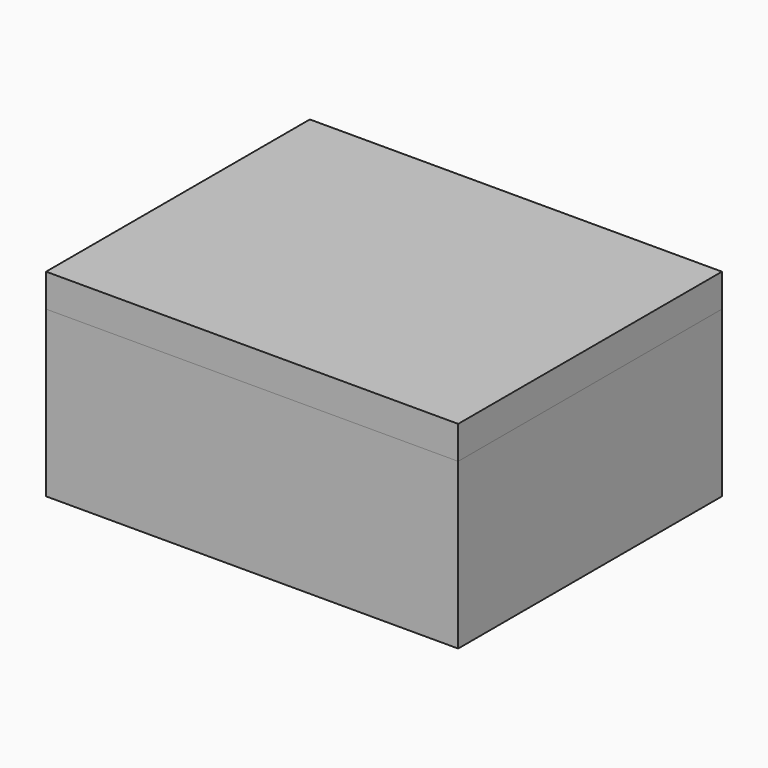
from build123d import *

# Parameters (mm, degrees)
F0_W      = 150
F0_H      = 120
F1_DEPTH  = 60
F2_T      = -6
F3_W      = 144
F3_H      = 114
F4_DEPTH  = 6
F5_W      = 144
F5_H      = 114
F6_DEPTH  = 6
F7_W      = 70
F7_H      = 30
F8_DEPTH  = 60.001
F9_R      = 6.35
F10_W     = 150
F10_H     = 120
F11_DEPTH = 12
F12_W     = 100
F12_H     = 70
F13_DEPTH = 9
F14_R     = 6.35


with BuildPart() as f1:
    # F0 (on Top) → F1 (new body)
    with BuildSketch(Plane.XY):
        Rectangle(F0_W, F0_H)
    extrude(amount=F1_DEPTH)

    # F2
    f2_openings = [f1.faces().sort_by_distance(p)[0] for p in [
        (0, 0, 60),
    ]]
    offset(amount=F2_T, openings=f2_openings)

    # F3 (on face) → F4 (cut)
    with BuildSketch(Plane.XY.offset(60)):
        Rectangle(F3_W, F3_H)
    extrude(amount=-F4_DEPTH, mode=Mode.SUBTRACT)


with BuildPart() as f6:
    # F5 (on face) → F6 (new body)
    with BuildSketch(Plane.XY.offset(54)):
        Rectangle(F5_W, F5_H)
    extrude(amount=F6_DEPTH)

    # F7 (on face) → F8 (cut, through all)
    with BuildSketch(Plane.XY.offset(60)):
        Rectangle(F7_W, F7_H)
    extrude(amount=-F8_DEPTH, mode=Mode.SUBTRACT)

    # F9
    f9_edges = [f6.edges().sort_by_distance(p)[0] for p in [
        (-35, 15, 57),
        (35, 15, 57),
        (-35, -15, 57),
        (35, -15, 57),
    ]]
    fillet(f9_edges, radius=F9_R)


with BuildPart() as f11:
    # F10 (on face) → F11 (new body)
    with BuildSketch(Plane.XY.offset(60)):
        Rectangle(F10_W, F10_H)
    extrude(amount=F11_DEPTH)

    # F12 (on face) → F13 (cut)
    with BuildSketch(Plane(origin=(0, 0, 60), x_dir=(1, 0, 0), z_dir=(0, 0, -1))):
        Rectangle(F12_W, F12_H)
    extrude(amount=-F13_DEPTH, mode=Mode.SUBTRACT)

    # F14
    f14_edges = [f11.edges().sort_by_distance(p)[0] for p in [
        (-50, 35, 64.5),
        (-50, -35, 64.5),
        (50, -35, 64.5),
        (50, 35, 64.5),
    ]]
    fillet(f14_edges, radius=F14_R)


solid = Compound([f1.part, f6.part, f11.part])
